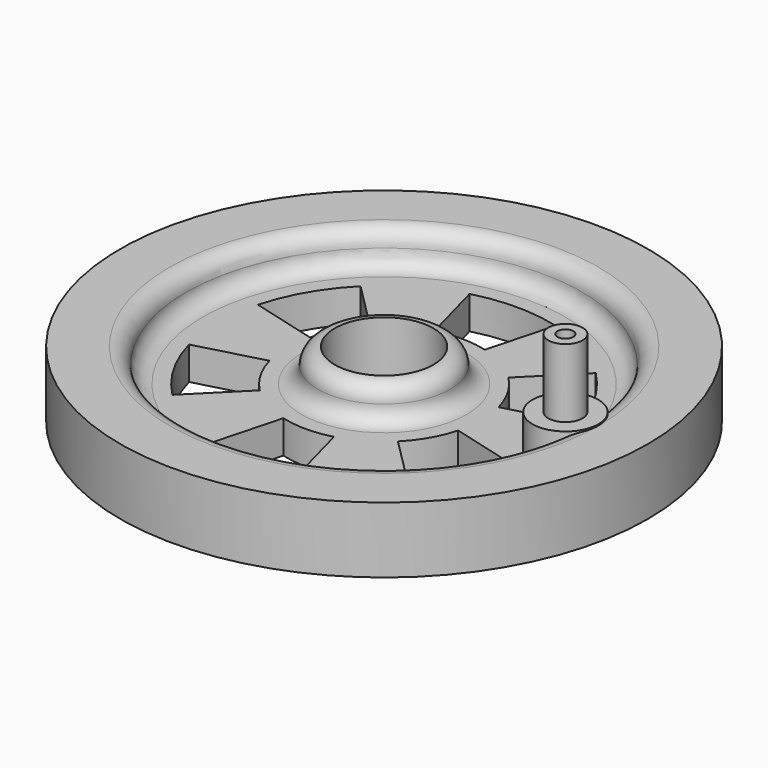
from build123d import *

# Parameters (mm, degrees)
F3_DEPTH  = 25.4
F5_R      = 3.175
F6_DEPTH  = 3.302
F7_R      = 1.651
F8_DEPTH  = 6.604
F9_R      = 0.762
F10_DEPTH = 3.048


with BuildPart() as f1:
    # F0 (on Front) → F1 (revolve)
    with BuildSketch(Plane.XZ):
        with BuildLine():
            Line((8.5327767238, 6.35), (8.5327767238, 0))
            Line((8.5327767238, 0), (29.1829767238, 0))
            Line((29.1829767238, 0), (29.1829767238, 6.35))
            Line((29.1829767238, 6.35), (24.4331767238, 6.35))
            ThreePointArc((24.4331767238, 6.35), (23.3016644525, 5.8813122713), (22.8329767238, 4.7498))
            Line((22.8329767238, 4.7498), (22.8329767238, 4.7752))
            ThreePointArc((22.8329767238, 4.7752), (22.364288995, 3.6436877287), (21.2327767238, 3.175))
            Line((21.2327767238, 3.175), (11.7331767238, 3.175))
            ThreePointArc((11.7331767238, 3.175), (10.6016644525, 3.6436877287), (10.1329767238, 4.7752))
            Line((10.1329767238, 4.7752), (10.1329767238, 4.7498))
            ThreePointArc((10.1329767238, 4.7498), (9.664288995, 5.8813122713), (8.5327767238, 6.35))
        make_face()
    revolve(axis=Axis((3.7829767238, 0, 2.3621032014), (0, 0, -1)))

    # F2 (on face) → F3 (cut)
    with BuildSketch(Plane.XY.offset(3.175)):
        with BuildLine():
            ThreePointArc((1.3505953379, 9.0777709155), (3.7829767238, 9.398), (6.2153581096, 9.0777709155))
            Line((6.2153581096, 9.0777709155), (7.9245990835, 15.4567450723))
            ThreePointArc((7.9245990835, 15.4567450723), (3.7829767238, 16.002), (-0.358645636, 15.4567450723))
            Line((-0.358645636, 15.4567450723), (1.3505953379, 9.0777709155))
        make_face()
        with BuildLine():
            Line((-2.8624128058, 6.6453895296), (-7.5321459888, 11.3151227125))
            ThreePointArc((-7.5321459888, 11.3151227125), (-10.0751617876, 8.001), (-11.6737683485, 4.1416223597))
            Line((-11.6737683485, 4.1416223597), (-5.2947941917, 2.4323813859))
            ThreePointArc((-5.2947941917, 2.4323813859), (-4.355930021, 4.699), (-2.8624128058, 6.6453895296))
        make_face()
        with BuildLine():
            Line((-5.2947941917, -2.4323813859), (-11.6737683485, -4.1416223597))
            ThreePointArc((-11.6737683485, -4.1416223597), (-10.0751617876, -8.001), (-7.5321459888, -11.3151227125))
            Line((-7.5321459888, -11.3151227125), (-2.8624128058, -6.6453895296))
            ThreePointArc((-2.8624128058, -6.6453895296), (-4.355930021, -4.699), (-5.2947941917, -2.4323813859))
        make_face()
        with BuildLine():
            Line((1.3505953379, -9.0777709155), (-0.358645636, -15.4567450723))
            ThreePointArc((-0.358645636, -15.4567450723), (3.7829767238, -16.002), (7.9245990835, -15.4567450723))
            Line((7.9245990835, -15.4567450723), (6.2153581096, -9.0777709155))
            ThreePointArc((6.2153581096, -9.0777709155), (3.7829767238, -9.398), (1.3505953379, -9.0777709155))
        make_face()
        with BuildLine():
            Line((10.4283662534, -6.6453895296), (15.0980994363, -11.3151227125))
            ThreePointArc((15.0980994363, -11.3151227125), (17.6411152351, -8.001), (19.239721796, -4.1416223597))
            Line((19.239721796, -4.1416223597), (12.8607476392, -2.4323813859))
            ThreePointArc((12.8607476392, -2.4323813859), (11.9218834685, -4.699), (10.4283662534, -6.6453895296))
        make_face()
        with BuildLine():
            Line((12.8607476392, 2.4323813859), (19.239721796, 4.1416223597))
            ThreePointArc((19.239721796, 4.1416223597), (17.6411152351, 8.001), (15.0980994363, 11.3151227125))
            Line((15.0980994363, 11.3151227125), (10.4283662534, 6.6453895296))
            ThreePointArc((10.4283662534, 6.6453895296), (11.9218834685, 4.699), (12.8607476392, 2.4323813859))
        make_face()
    extrude(amount=-F3_DEPTH, mode=Mode.SUBTRACT)


with BuildPart() as f1_1:
    # F4: moved
    add(f1.part.moved(Location((-3.81, 0, 0))))

    # F5 (on face) → F6 (join)
    with BuildSketch(Plane.XY.offset(3.175)):
        with Locations((17.4227767238, 0)):
            Circle(F5_R)
    extrude(amount=F6_DEPTH)


with BuildPart() as f8:
    # F7 (on face) → F8 (new body)
    with BuildSketch(Plane.XY.offset(6.477)):
        with Locations((17.4227767238, 0)):
            Circle(F7_R)
    extrude(amount=F8_DEPTH)

    # F9 (on face) → F10 (cut)
    with BuildSketch(Plane.XY.offset(13.081)):
        with Locations((17.4227767238, 0)):
            Circle(F9_R)
    extrude(amount=-F10_DEPTH, mode=Mode.SUBTRACT)


solid = Compound([f1_1.part, f8.part])
